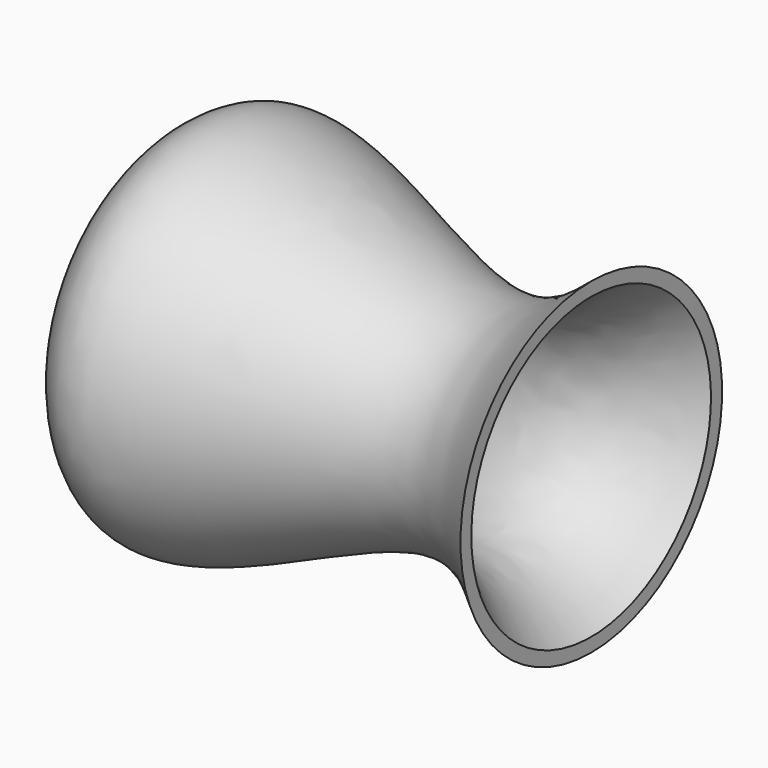
from build123d import *

# Parameters (mm, degrees)
F2_T = -2.5


with BuildPart() as f1:
    # F0 (on Front) → F1 (revolve)
    with BuildSketch(Plane.XZ):
        with BuildLine():
            add(Edge.make_bspline(
                [(-56.605361402, 22.3788656294), (-51.6969790621, 32.8060268919), (-39.7393822528, 58.208243265), (23.6150317637, 15.3087730262), (43.7471169475, 32.0216467615), (52.2173605859, 39.0533134341)],
                knots=[0, 0, 0, 0, 0.2874165487, 0.7001922359, 1, 1, 1, 1], degree=3))
            Line((-56.605361402, 22.3788656294), (-56.605361402, 0))
            Line((-56.605361402, 0), (51.7785586417, 0))
            Line((51.7785586417, 0), (52.2173605859, 39.0533134341))
        make_face()
    revolve(axis=Axis((-2.4134013802, 0, 0), (1, 0, 0)))

    # F2
    f2_openings = [f1.faces().sort_by_distance(p)[0] for p in [
        (51.99796, 0, -19.526657),
    ]]
    offset(amount=F2_T, openings=f2_openings, kind=Kind.INTERSECTION)


solid = f1.part
